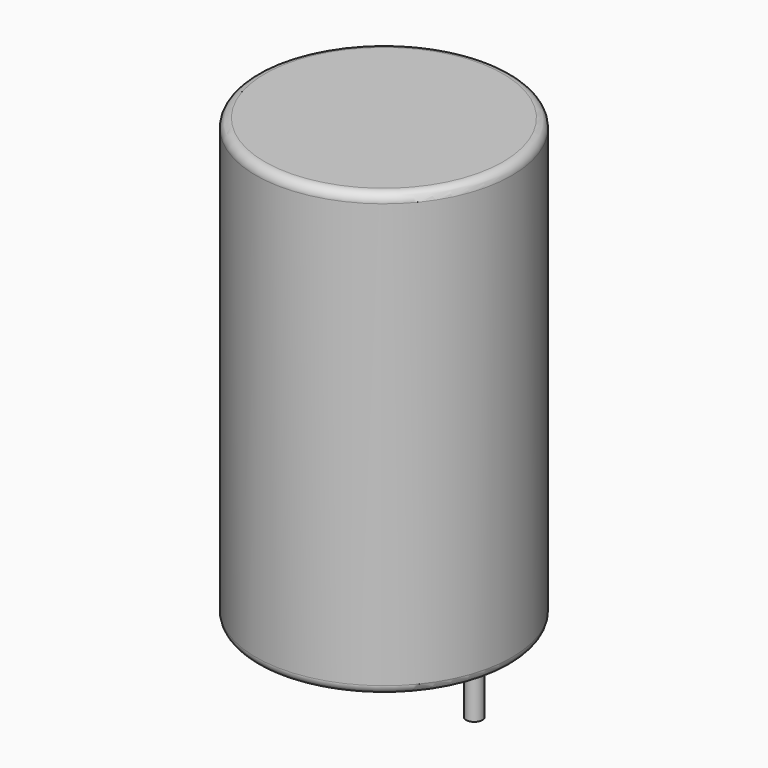
from build123d import *

# Parameters (mm, degrees)
SKETCH001_R       = 0.45
PAD001_DEPTH      = 12.25
PAD001_DEPTH_BACK = 3.5
SKETCH_R          = 7.1
PAD_DEPTH         = 24.5
FILLET_R          = 0.5


with BuildPart() as pad001:
    # Sketch001 → Pad001 (new body, two sides)
    with BuildSketch(Plane.XY.offset(0.5)) as pad001_sk:
        Circle(SKETCH001_R)
        with Locations((10, 0)):
            Circle(SKETCH001_R)
    extrude(amount=PAD001_DEPTH)
    extrude(pad001_sk.sketch, amount=-PAD001_DEPTH_BACK)


with BuildPart() as fillet_body:
    # Sketch → Pad (new body)
    with BuildSketch(Plane.XY.offset(0.1)):
        with Locations((5, 0)):
            Circle(SKETCH_R)
    extrude(amount=PAD_DEPTH)

    # Fillet
    fillet_edges = [fillet_body.edges().sort_by_distance(p)[0] for p in [
        (-2.1, 0, 0.1),
        (-2.1, 0, 24.6),
    ]]
    fillet(fillet_edges, radius=FILLET_R)


solid = Compound([pad001.part, fillet_body.part])
